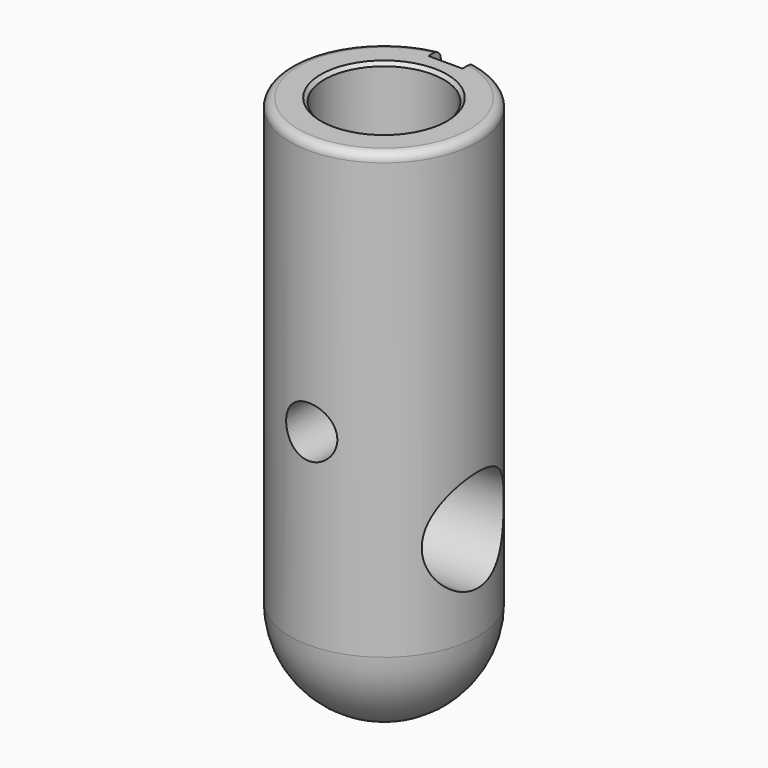
from build123d import *

# Parameters (mm, degrees)
F2_SIZE   = 5.08
F4_DEPTH  = 806.27653
F6_R      = 76.2
F7_DEPTH  = 635.34323
F8_R      = 31.75
F9_DEPTH  = 343.56878
F10_R     = 38.1
F11_DEPTH = 418.60546


with BuildPart() as f1:
    # F0 (on Front) → F1 (revolve)
    with BuildSketch(Plane.XZ):
        with BuildLine():
            Line((202.739415619, 454.8578867186), (113.839415619, 454.8578867186))
            Line((113.839415619, 454.8578867186), (113.839415619, -139.7))
            ThreePointArc((113.839415619, -139.7), (212.6222329507, -98.7828173318), (253.539415619, 0))
            Line((253.539415619, 0), (253.539415619, 647.7))
            ThreePointArc((253.539415619, 647.7), (249.81967174, 656.6802561211), (240.839415619, 660.4))
            Line((240.839415619, 660.4), (202.739415619, 660.4))
            Line((202.739415619, 660.4), (202.739415619, 454.8578867186))
        make_face()
    revolve(axis=Axis((113.839415619, 0, 157.5789433593), (0, 0, -1)))

    # F2
    f2_edges = [f1.edges().sort_by_distance(p)[0] for p in [
        (24.939416, 0, 660.4),
    ]]
    chamfer(f2_edges, length=F2_SIZE)

    # F3 (on face) → F4 (cut)
    with BuildSketch(Plane.XY.offset(660.4)):
        with BuildLine():
            Line((139.239415619, 154.6271294355), (88.439415619, 154.6271294355))
            Line((88.439415619, 154.6271294355), (88.439415619, 124.4340789334))
            ThreePointArc((88.439415619, 124.4340789334), (113.839415619, 127), (139.239415619, 124.4340789334))
            Line((139.239415619, 124.4340789334), (139.239415619, 154.6271294355))
        make_face()
        with BuildLine():
            ThreePointArc((139.239415619, 124.4340789334), (113.839415619, 127), (88.439415619, 124.4340789334))
            Line((88.439415619, 124.4340789334), (88.439415619, 114.3))
            Line((88.439415619, 114.3), (139.239415619, 114.3))
            Line((139.239415619, 114.3), (139.239415619, 124.4340789334))
        make_face()
    extrude(amount=-F4_DEPTH, mode=Mode.SUBTRACT)

    # F6 (on offset) → F7 (cut)
    with BuildSketch(Plane.YZ.offset(-152.4)):
        with Locations((0, 139.7)):
            Circle(F6_R)
    extrude(amount=F7_DEPTH, mode=Mode.SUBTRACT)

    # F8 (on face) → F9 (cut)
    with BuildSketch(Plane.XY.offset(454.8578867186)):
        with Locations((113.839415619, 0)):
            Circle(F8_R)
    extrude(amount=-F9_DEPTH, mode=Mode.SUBTRACT)

    # F10 (on Front) → F11 (cut)
    with BuildSketch(Plane.XZ):
        with Locations((113.839415619, 279.4)):
            Circle(F10_R)
    extrude(amount=F11_DEPTH, mode=Mode.SUBTRACT)


solid = f1.part
